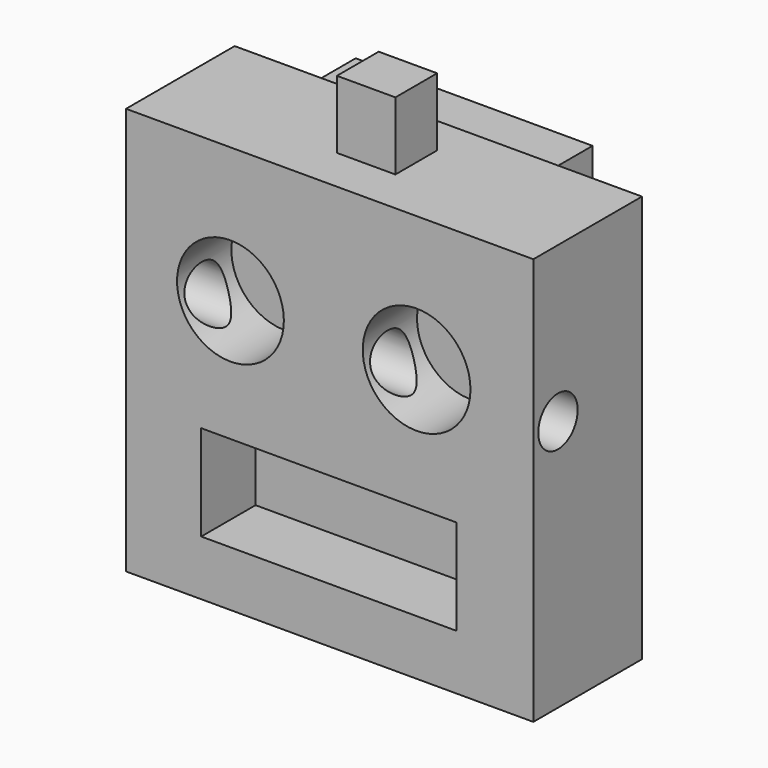
from build123d import *

# Parameters (mm, degrees)
F0_W      = 76.2
F0_H      = 76.2
F1_DEPTH  = 25.4
F2_R      = 9.9906314399
F2_R_2    = 10.0773114698
F3_DEPTH  = 12.7
F4_W      = 47.7757537737
F4_H      = 17.8439570591
F5_DEPTH  = 12.7
F6_R      = 4.6109216101
F7_DEPTH  = 127
F8_W      = 44.3220883608
F8_H      = 49.7903954238
F9_DEPTH  = 11.43
F10_W     = 39.717190899
F10_H     = 44.3220883608
F11_DEPTH = 11.43
F12_W     = 44.3220883608
F12_H     = 2.8436683783
F13_DEPTH = 11.43
F14_W     = 4.6048909426
F14_H     = 2.8780568391
F14_W_2   = 4.8926984891
F15_DEPTH = 5.08
F16_W     = 10.9366197139
F16_H     = 9.7684562206
F17_DEPTH = 12.7


with BuildPart() as f1:
    # F0 (on Front) → F1 (new body)
    with BuildSketch(Plane.XZ):
        with Locations((-10.2171050385, 1.5830600848)):
            Rectangle(F0_W, F0_H)
    extrude(amount=-F1_DEPTH)

    # F2 (on face) → F3 (cut)
    with BuildSketch(Plane.XZ):
        with Locations((-28.7805758417, 14.3902888522)):
            Circle(F2_R)
        with Locations((6.0439212248, 14.3902888522)):
            Circle(F2_R_2)
    extrude(amount=-F3_DEPTH, mode=Mode.SUBTRACT)

    # F4 (on face) → F5 (cut)
    with BuildSketch(Plane.XZ):
        with Locations((-10.3610078804, -17.2683452256)):
            Rectangle(F4_W, F4_H)
    extrude(amount=-F5_DEPTH, mode=Mode.SUBTRACT)

    # F6 (on face) → F7 (cut)
    with BuildSketch(Plane.YZ.offset(27.8828949615)):
        with Locations((5.7532191277, 10.6449518353)):
            Circle(F6_R)
    extrude(amount=-F7_DEPTH, mode=Mode.SUBTRACT)

    # F8 (on face) → F9 (join)
    with BuildSketch(Plane(origin=(0, 25.4, 0), x_dir=(-1, 0, 0), z_dir=(0, 1, 0))):
        with Locations((12.6634538174, 12.5195505098)):
            Rectangle(F8_W, F8_H)
    extrude(amount=F9_DEPTH)

    # F10 (on face) → F11 (cut)
    with BuildSketch(Plane(origin=(0, 36.83, 0), x_dir=(-1, 0, 0), z_dir=(0, 1, 0))):
        with Locations((12.3756448738, 12.6634538174)):
            Rectangle(F10_W, F10_H)
    extrude(amount=-F11_DEPTH, mode=Mode.SUBTRACT)

    # F12 (on face) → F13 (join)
    with BuildSketch(Plane(origin=(0, 25.4, 0), x_dir=(-1, 0, 0), z_dir=(0, 1, 0))):
        with Locations((12.6634538174, -35.095105726)):
            Rectangle(F12_W, F12_H)
    extrude(amount=F13_DEPTH)

    # F14 (on face) → F15 (cut)
    with BuildSketch(Plane(origin=(0, 36.83, 0), x_dir=(-1, 0, 0), z_dir=(0, 1, 0))):
        with Locations((21.8732375652, -10.9366187826)):
            Rectangle(F14_W, F14_H)
        with Locations((2.4463492446, -10.9366187826)):
            Rectangle(F14_W_2, F14_H)
    extrude(amount=-F15_DEPTH, mode=Mode.SUBTRACT)

    # F16 (on face) → F17 (join)
    with BuildSketch(Plane.XY.offset(39.6830600848)):
        with Locations((-10.0732017308, 13.2293850183)):
            Rectangle(F16_W, F16_H)
    extrude(amount=F17_DEPTH)


solid = f1.part
